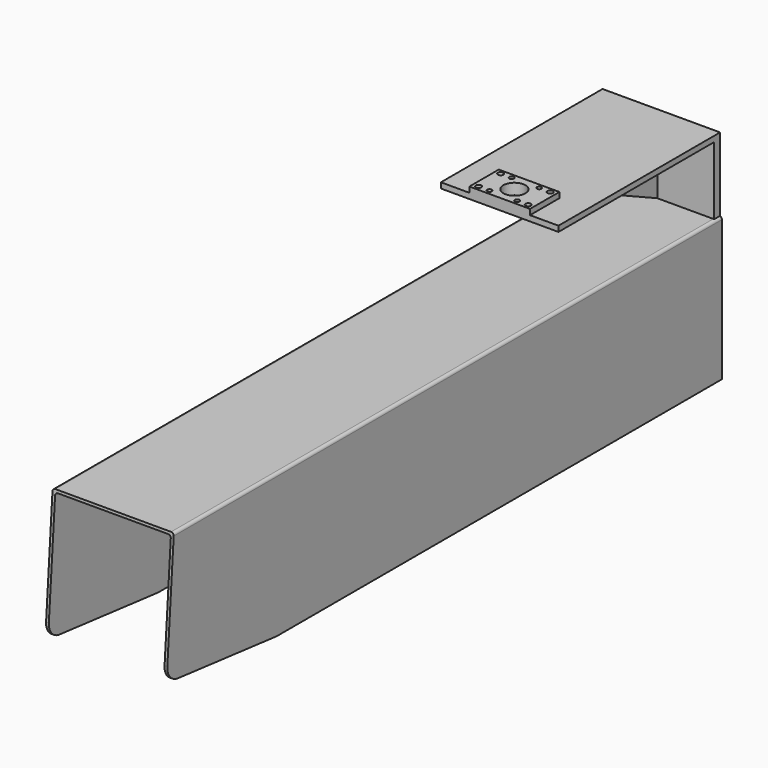
from build123d import *

# Parameters (mm, degrees)
F1_DEPTH  = 600.075
F2_R      = 4.7625
F4_DEPTH  = 209.55
F6_DEPTH  = 209.55
F7_R      = 25.4
F9_DEPTH  = 101.6
F11_DEPTH = 3.175
F12_W     = 104.775
F12_H     = 63.5
F13_DEPTH = 9.525
F14_R     = 19.05
F14_R_2   = 4.7625
F15_DEPTH = 19.05
F16_R     = 3.96875
F17_DEPTH = 9.525


with BuildPart() as f1:
    # F0 (on Front) → F1 (new body, symmetric)
    with BuildSketch(Plane.XZ):
        Polygon((-104.775, -242.8875), (-100.0125, -242.8875), (-100.0125, 0), (100.0125, 0), (100.0125, -242.8875), (104.775, -242.8875), (104.775, 4.7625), (-104.775, 4.7625), align=None)
    extrude(amount=F1_DEPTH, both=True)

    # F2
    f2_edges = [f1.edges().sort_by_distance(p)[0] for p in [
        (-104.775, 0, 4.7625),
        (-100.0125, 0, 0),
        (104.775, 0, 4.7625),
        (100.0125, 0, 0),
    ]]
    fillet(f2_edges, radius=F2_R)

    # F3 (on face) → F4 (cut, through all)
    with BuildSketch(Plane(origin=(-104.775, 0, 0), x_dir=(0, -1, 0), z_dir=(-1, 0, 0))):
        Polygon((600.075, -242.8875), (600.075, -217.4875), (361.95, -242.8875), align=None)
    extrude(amount=-F4_DEPTH, mode=Mode.SUBTRACT)

    # F5 (on face) → F6 (cut, through all)
    with BuildSketch(Plane(origin=(-104.775, 0, 0), x_dir=(0, -1, 0), z_dir=(-1, 0, 0))):
        Polygon((584.2, 4.7625), (600.075, -217.4875), (600.075, 4.7625), align=None)
    extrude(amount=-F6_DEPTH, mode=Mode.SUBTRACT)

    # F7
    f7_edges = [f1.edges().sort_by_distance(p)[0] for p in [
        (-102.39375, -600.075, -217.4875),
        (102.39375, -600.075, -217.4875),
        (-102.39375, -361.95, -242.8875),
        (102.39375, -361.95, -242.8875),
    ]]
    fillet(f7_edges, radius=F7_R)

    # F8 (on Right) → F9 (join, symmetric)
    with BuildSketch(Plane.YZ):
        Polygon((587.375, 4.7625), (600.075, 4.7625), (600.075, 131.7625), (250.825, 131.7625), (250.825, 122.2375), (587.375, 122.2375), align=None)
    extrude(amount=F9_DEPTH, both=True)

    # F10 (on Right) → F11 (join, symmetric)
    with BuildSketch(Plane.YZ):
        Polygon((587.375, 4.7625), (587.375, 122.2375), (333.375, 122.2375), align=None)
    extrude(amount=F11_DEPTH, both=True)

    # F12 (on face) → F13 (join)
    with BuildSketch(Plane.XY.offset(131.7625)):
        with Locations((0, 282.575)):
            Rectangle(F12_W, F12_H)
    extrude(amount=F13_DEPTH)

    # F14 (on face) → F15 (cut, through all)
    with BuildSketch(Plane.XY.offset(141.2875)):
        with Locations((0, 282.575)):
            Circle(F14_R)
        with Locations((-42.8625, 306.3875)):
            Circle(F14_R_2)
        with Locations((-42.8625, 258.7625)):
            Circle(F14_R_2)
        with Locations((42.8625, 258.7625)):
            Circle(F14_R_2)
        with Locations((42.8625, 306.3875)):
            Circle(F14_R_2)
    extrude(amount=-F15_DEPTH, mode=Mode.SUBTRACT)

    # F16 (on face) → F17 (cut, through all)
    with BuildSketch(Plane.XY.offset(141.2875)):
        with Locations((-23.8125, 306.3875)):
            Circle(F16_R)
        with Locations((23.8125, 306.3875)):
            Circle(F16_R)
        with Locations((23.8125, 258.7625)):
            Circle(F16_R)
        with Locations((-23.8125, 258.7625)):
            Circle(F16_R)
    extrude(amount=-F17_DEPTH, mode=Mode.SUBTRACT)


solid = f1.part
